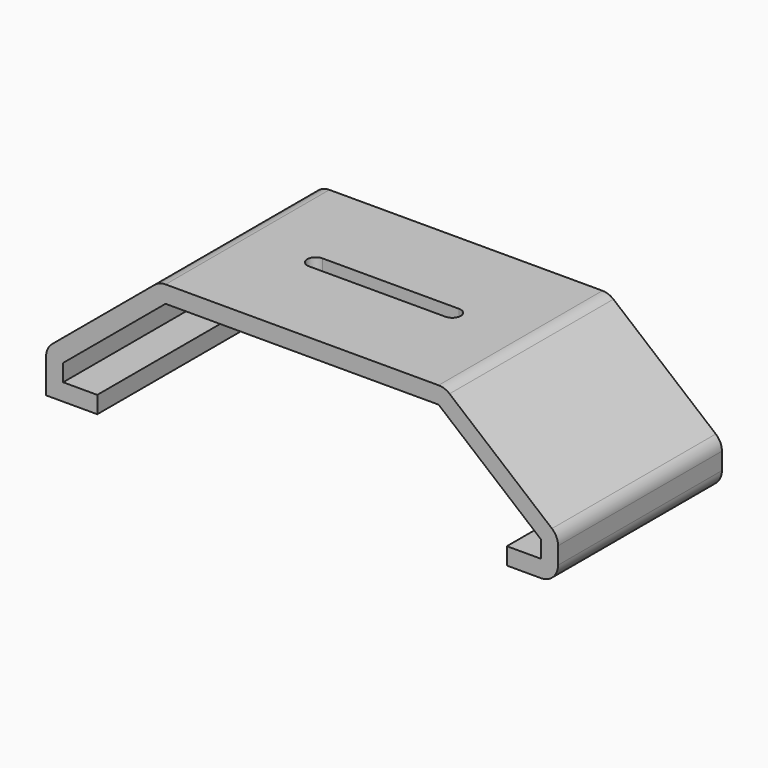
from build123d import *

# Parameters (mm, degrees)
F1_DEPTH = 76.2
F2_R     = 6.35
F4_DEPTH = 50.801


with BuildPart() as f1:
    # F0 (on Front) → F1 (new body)
    with BuildSketch(Plane.XZ):
        Polygon((88.9, -5.741036), (76.2, -5.741036), (76.2, -12.091036), (95.25, -12.091036), (95.25, 3.583144), (53.099017, 38.708964), (-53.099017, 38.708964), (-95.25, 3.583144), (-95.25, -12.091036), (-76.2, -12.091036), (-76.2, -5.741036), (-88.9, -5.741036), (-88.9, 0.608964), (-50.8, 32.358964), (50.8, 32.358964), (88.9, 0.608964), align=None)
    extrude(amount=F1_DEPTH)

    # F2
    f2_edges = [f1.edges().sort_by_distance(p)[0] for p in [
        (-53.099017, -38.1, 38.708964),
        (53.099017, -38.1, 38.708964),
        (95.25, -38.1, 3.583144),
        (95.25, -38.1, -12.091036),
        (-95.25, -38.1, 3.583144),
    ]]
    fillet(f2_edges, radius=F2_R)

    # F3 (on face) → F4 (cut, through all)
    with BuildSketch(Plane.XY.offset(38.708964)):
        with BuildLine():
            Line((25.4, -34.925), (-25.4, -34.925))
            ThreePointArc((-25.4, -34.925), (-28.575, -38.1), (-25.4, -41.275))
            Line((-25.4, -41.275), (25.4, -41.275))
            ThreePointArc((25.4, -41.275), (28.575, -38.1), (25.4, -34.925))
        make_face()
    extrude(amount=-F4_DEPTH, mode=Mode.SUBTRACT)


solid = f1.part
